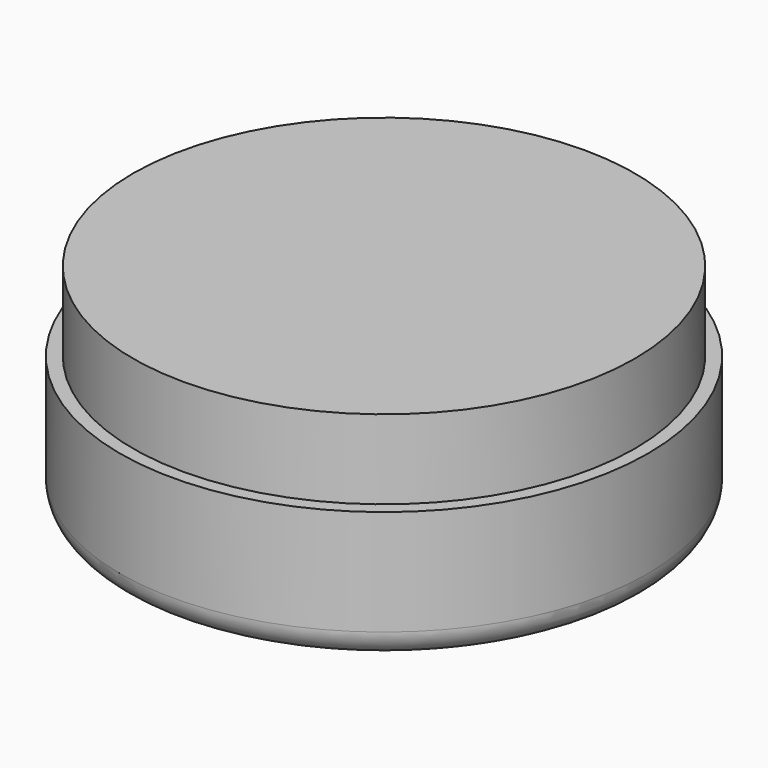
from build123d import *

# Parameters (mm, degrees)
F0_R     = 9.5
F1_DEPTH = 3
F0_R_2   = 10
F2_DEPTH = 5
F3_R     = 1


with BuildPart() as f1:
    # F0 (on Top) → F1 (new body)
    with BuildSketch(Plane.XY):
        Circle(F0_R)
    extrude(amount=F1_DEPTH)

    # F0 (on Top) → F2 (join)
    with BuildSketch(Plane.XY):
        Circle(F0_R_2)
        Circle(F0_R, mode=Mode.SUBTRACT)
        Circle(F0_R)
    extrude(amount=-F2_DEPTH)

    # F3
    f3_edges = [f1.edges().sort_by_distance(p)[0] for p in [
        (-10, 0, -5),
    ]]
    fillet(f3_edges, radius=F3_R)


solid = f1.part
